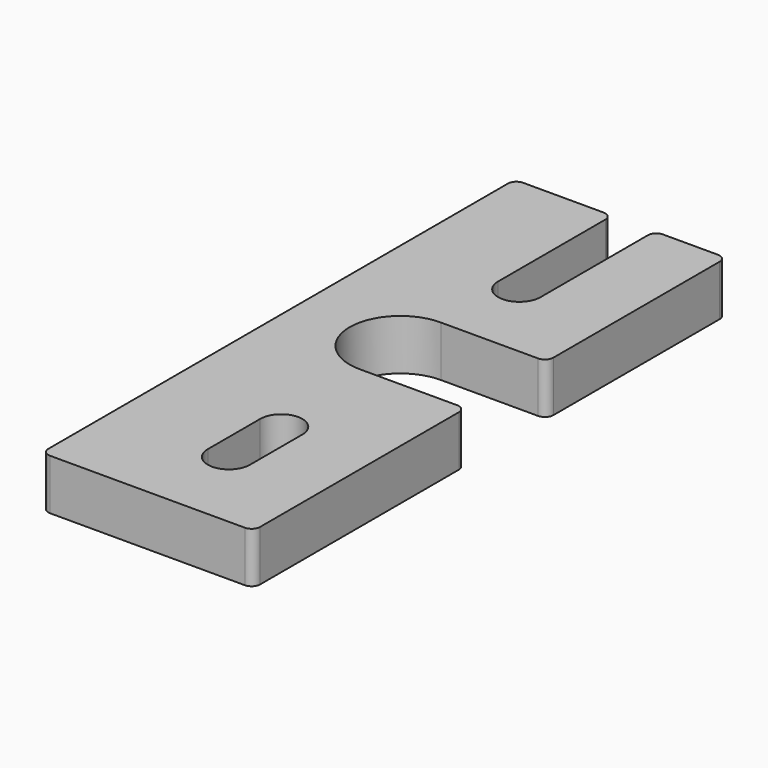
from build123d import *

# Parameters (mm, degrees)
F1_DEPTH = 6
F2_R     = 1


with BuildPart() as f1:
    # F0 (on Top) → F1 (new body)
    with BuildSketch(Plane.XY):
        with BuildLine():
            Line((-0.99, 35.03), (-12.54, 35.03))
            Line((-12.54, 35.03), (-12.54, -35.03))
            Line((-12.54, -35.03), (12.54, -35.03))
            Line((12.54, -35.03), (12.54, -3.589472))
            Line((12.54, -3.589472), (0, -3.589472))
            ThreePointArc((0, -3.589472), (-6, 2.410528), (0, 8.410528))
            Line((0, 8.410528), (12.54, 8.410528))
            Line((12.54, 8.410528), (12.54, 35.03))
            Line((12.54, 35.03), (4.04, 35.03))
            Line((4.04, 35.03), (4.04, 18.140533))
            ThreePointArc((4.04, 18.140533), (1.525, 15.625533), (-0.99, 18.140533))
            Line((-0.99, 18.140533), (-0.99, 35.03))
        make_face()
        with BuildLine():
            Line((4.025, -17.121777), (4.025, -24.88))
            ThreePointArc((4.025, -24.88), (1.525, -27.38), (-0.975, -24.88))
            Line((-0.975, -24.88), (-0.975, -17.121777))
            ThreePointArc((-0.975, -17.121777), (1.525, -14.621777), (4.025, -17.121777))
        make_face(mode=Mode.SUBTRACT)
    extrude(amount=F1_DEPTH)

    # F2
    f2_edges = [f1.edges().sort_by_distance(p)[0] for p in [
        (-12.54, -35.03, 3),
        (-12.54, 35.03, 3),
        (12.54, -35.03, 3),
        (12.54, 35.03, 3),
        (12.54, -3.589472, 3),
        (12.54, 8.410528, 3),
        (-0.99, 35.03, 3),
        (4.04, 35.03, 3),
    ]]
    fillet(f2_edges, radius=F2_R)


solid = f1.part
